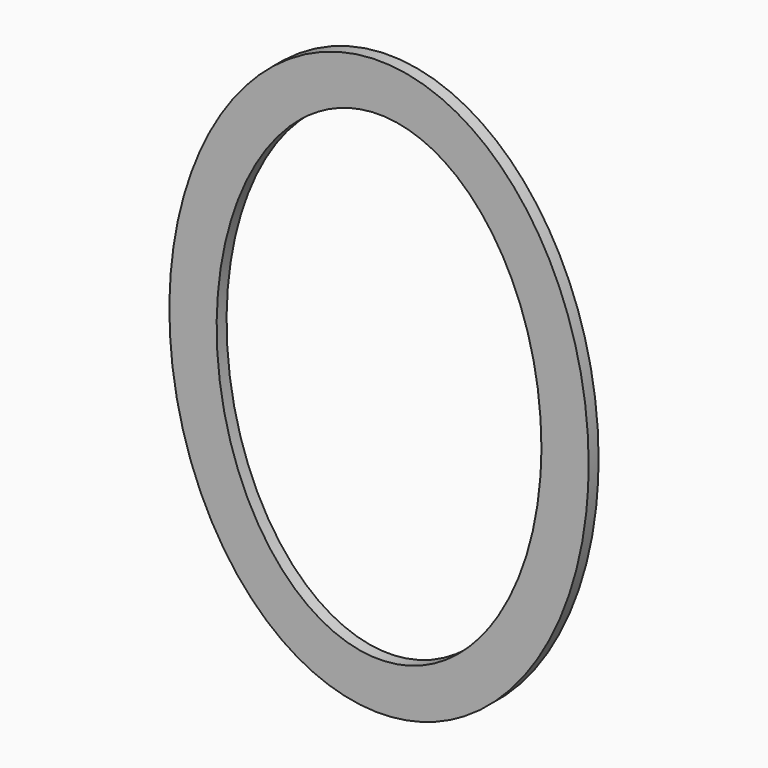
from build123d import *

# Parameters (mm, degrees)
F1_DEPTH = 8


with BuildPart() as f1:
    # F0 (on Front) → F1 (new body)
    with BuildSketch(Plane.XZ):
        with BuildLine():
            add(Edge.make_bspline(
                [(135.25, 0), (135.25, 320.862412), (-67.625, 160.431206), (-270.5, 0), (-67.625, -160.431206), (135.25, -320.862412), (135.25, 0)],
                knots=[4.712389, 4.712389, 4.712389, 6.806784, 6.806784, 8.901179, 8.901179, 10.995574, 10.995574, 10.995574], degree=2, weights=[1, 0.5, 1, 0.5, 1, 0.5, 1]))
        make_face()
        with BuildLine():
            add(Edge.make_bspline(
                [(104.75, 0), (104.75, 268.034862), (-52.375, 134.017431), (-209.5, 0), (-52.375, -134.017431), (104.75, -268.034862), (104.75, 0)],
                knots=[4.712389, 4.712389, 4.712389, 6.806784, 6.806784, 8.901179, 8.901179, 10.995574, 10.995574, 10.995574], degree=2, weights=[1, 0.5, 1, 0.5, 1, 0.5, 1]))
        make_face(mode=Mode.SUBTRACT)
    extrude(amount=F1_DEPTH)


solid = f1.part
